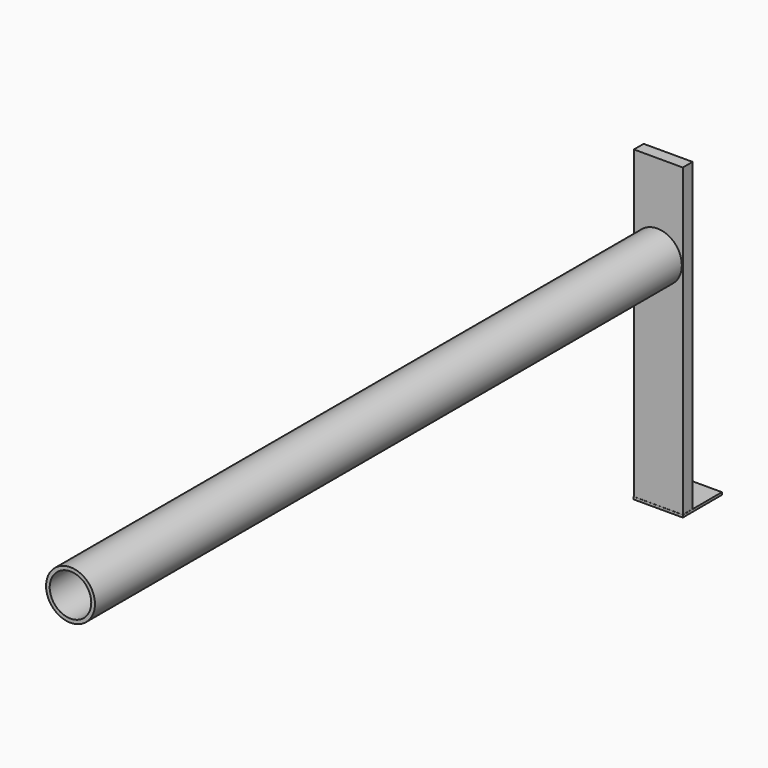
from build123d import *

# Parameters (mm, degrees)
F1_R      = 16.9
F2_DEPTH  = 60
F2_FACE_R = 16.9
F3_DEPTH  = 1
F5_DEPTH  = 10
F0_R      = 20
F0_R_2    = 17
F6_DEPTH  = 600
F8_DEPTH  = 2


with BuildPart() as f2:
    # F1 (on Front) → F2 (new body)
    with BuildSketch(Plane.XZ):
        Circle(F1_R)
    extrude(amount=F2_DEPTH)

    # F2_face (on face) → F3 (join)
    with BuildSketch(Plane(origin=(0, 0, 0), x_dir=(1, 0, 0), z_dir=(0, 1, 0))):
        Circle(F2_FACE_R)
    extrude(amount=F3_DEPTH)

    # F4 (on face) → F5 (join)
    with BuildSketch(Plane(origin=(0, 1, 0), x_dir=(-1, 0, 0), z_dir=(0, 1, 0))):
        Polygon((-20, 20), (-20, -180), (20, -180), (20, 20), (20, 70), (-20, 70), align=None)
    extrude(amount=F5_DEPTH)

    # F7 (on face) → F8 (join)
    with BuildSketch(Plane(origin=(0, 0, -180), x_dir=(1, 0, 0), z_dir=(0, 0, -1))):
        Polygon((-20.1, -0.900125), (-20, -41), (20, -41), (20.1, -0.900125), align=None)
    extrude(amount=F8_DEPTH)


with BuildPart() as f6:
    # F0 (on Front) → F6 (new body)
    with BuildSketch(Plane.XZ):
        Circle(F0_R)
        Circle(F0_R_2, mode=Mode.SUBTRACT)
    extrude(amount=F6_DEPTH)


solid = Compound([f2.part, f6.part])
